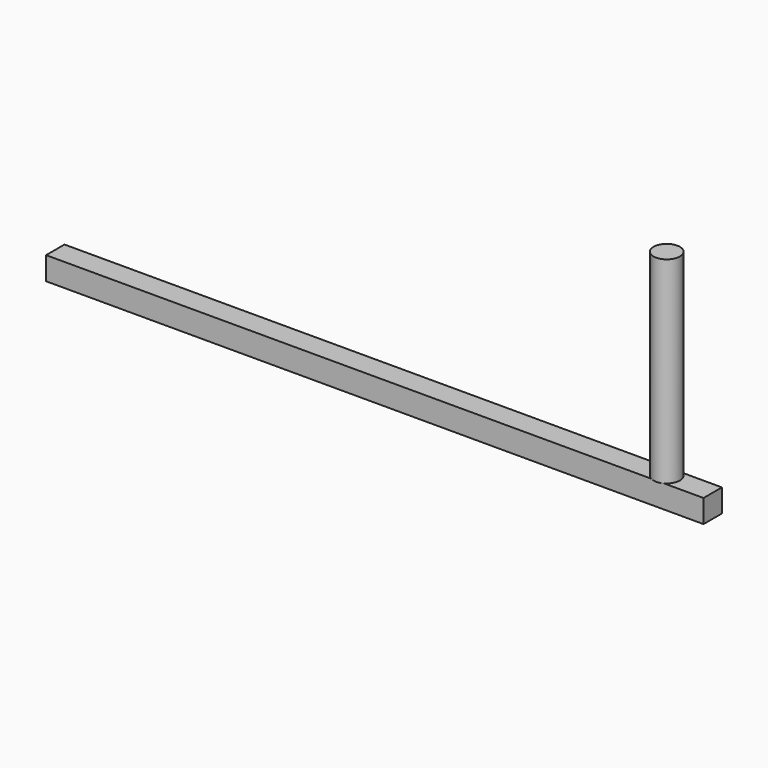
from build123d import *

# Parameters (mm, degrees)
F0_W     = 1000
F0_H     = 35
F1_DEPTH = 35
F2_R     = 20
F3_DEPTH = 300


with BuildPart() as f1:
    # F0 (on Front) → F1 (new body)
    with BuildSketch(Plane.XZ):
        with Locations((-500, 17.5)):
            Rectangle(F0_W, F0_H)
    extrude(amount=-F1_DEPTH)

    # F2 (on face) → F3 (join)
    with BuildSketch(Plane.XY.offset(35)):
        with Locations((-70, 17.5)):
            Circle(F2_R)
    extrude(amount=F3_DEPTH)


solid = f1.part
